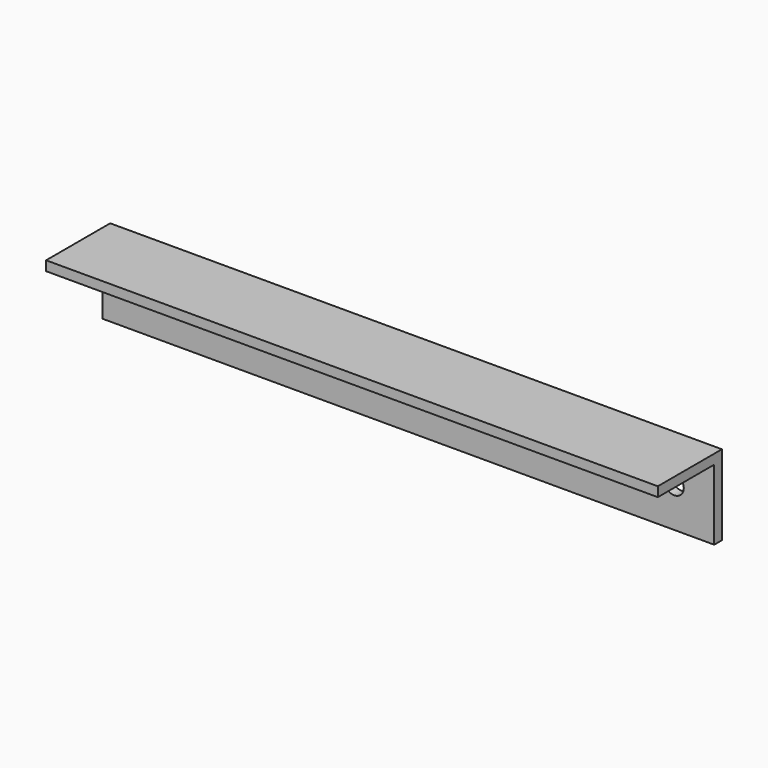
from build123d import *

# Parameters (mm, degrees)
PAD_DEPTH               = 381.68773
COPYSKETCH001_R         = 6
POCKET_DEPTH            = 50.001
PADBODY_PITCH_ANGLE     = 90
PADBODY_PLACEMENT_ANGLE = -180


with BuildPart() as part:
    # Sketch → Pad (new body)
    with BuildSketch(Plane.XY):
        Polygon((0, 0), (0, 50), (6, 50), (6, 6), (50, 6), (50, 0), align=None)
    extrude(amount=PAD_DEPTH)

    # CopySketch001 (on Pad) → Pocket (cut, through all)
    with BuildSketch(Plane.XZ):
        with Locations((25, 25)):
            Circle(COPYSKETCH001_R)
        with Locations((25, 356.68773)):
            Circle(COPYSKETCH001_R)
    extrude(amount=-POCKET_DEPTH, mode=Mode.SUBTRACT)


with BuildPart() as part_1:
    # PadBody pitch: moved
    add(part.part.rotate(Axis((0, 0, 0), (0, 1, 0)), PADBODY_PITCH_ANGLE))


with BuildPart() as part_2:
    # PadBody placement: moved
    add(part_1.part.moved(Location((190.843865, 50, 0))).rotate(Axis((190.843865, 50, 0), (0, 0, 1)), PADBODY_PLACEMENT_ANGLE))


solid = part_2.part
